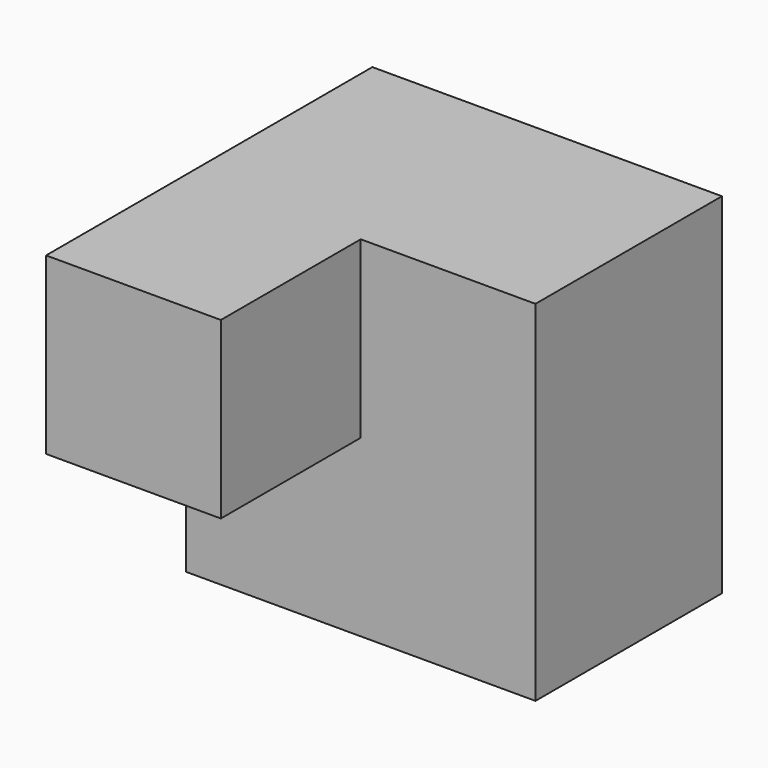
from build123d import *

# Parameters (mm, degrees)
F1_W      = 19.05
F1_H      = 19.05
F2_DEPTH  = 19.05
F0_W      = 38.1
F0_H      = 38.1
F2_FACE_W = 19.05
F2_FACE_H = 19.05
F3_DEPTH  = 25.4


with BuildPart() as f2:
    # F1 (on face) → F2 (new body)
    with BuildSketch(Plane.XZ):
        with Locations((-9.525, 9.525)):
            Rectangle(F1_W, F1_H)
    extrude(amount=F2_DEPTH)

    # F0 (on Front) + F2_face (on face) → F3 (join)
    with BuildSketch(Plane.XZ):
        Rectangle(F0_W, F0_H)
    with BuildSketch(Plane(origin=(-9.525, -19.05, 9.525), x_dir=(1, 0, 0), z_dir=(0, -1, 0))):
        Rectangle(F2_FACE_W, F2_FACE_H)
    extrude(amount=F3_DEPTH)


solid = f2.part
